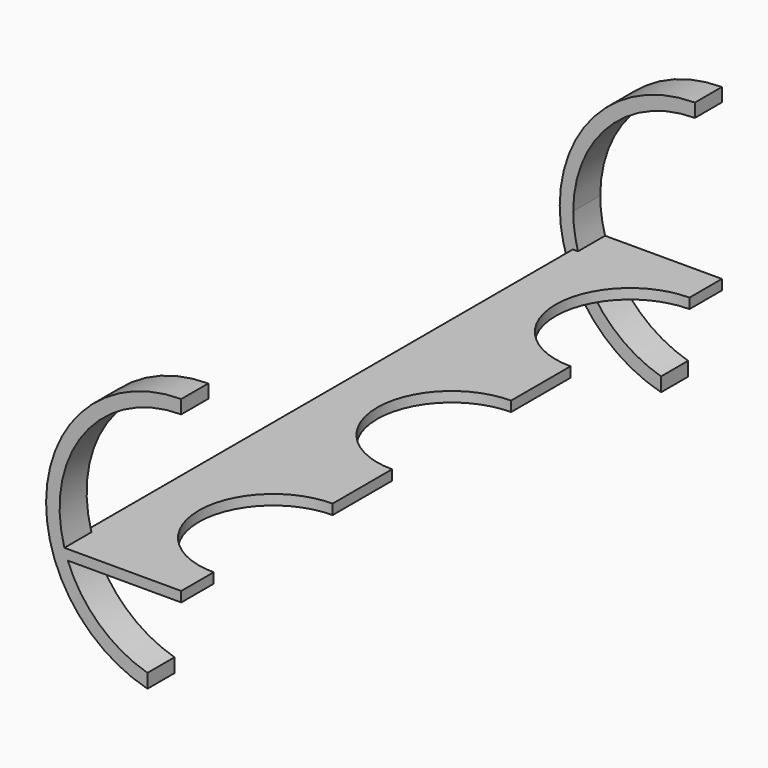
from build123d import *

# Parameters (mm, degrees)
F0_R          = 20
F0_R_2        = 18
F1_DEPTH      = 5
F2_W          = 36
F2_H          = 1.5
F3_DEPTH      = 5
F3_DEPTH_BACK = 95
F4_R          = 20
F5_DEPTH      = 5
F7_DEPTH      = 100.001
F8_R          = 11
F9_DEPTH      = 14.365916731
F10_W         = 25.2537801862
F10_H         = 64.4325390458
F11_DEPTH     = 100


with BuildPart() as f1:
    # F0 (on Front) → F1 (new body)
    with BuildSketch(Plane.XZ):
        Circle(F0_R)
        Circle(F0_R_2, mode=Mode.SUBTRACT)
    extrude(amount=F1_DEPTH)

    # F2 (on Front) → F3 (join, two sides)
    with BuildSketch(Plane.XZ) as f3_sk:
        with Locations((-0.0596572459, -5.75)):
            Rectangle(F2_W, F2_H)
    extrude(amount=F3_DEPTH)
    extrude(f3_sk.sketch, amount=-F3_DEPTH_BACK)

    # F4 (on face) → F5 (join)
    with BuildSketch(Plane(origin=(0, 95, 0), x_dir=(-1, 0, 0), z_dir=(0, 1, 0))):
        Circle(F4_R)
        with BuildLine():
            ThreePointArc((-17.2916164658, -5), (-2.5249657043, 17.8220242451), (18, 0))
            ThreePointArc((18, 0), (17.8220242451, -2.5249657043), (17.2916164658, -5))
            Line((17.2916164658, -5), (18.0596572459, -5))
            Line((18.0596572459, -5), (18.0596572459, -6.5))
            Line((18.0596572459, -6.5), (16.7854103316, -6.5))
            ThreePointArc((16.7854103316, -6.5), (0, -18), (-16.7854103316, -6.5))
            Line((-16.7854103316, -6.5), (-17.9403427541, -6.5))
            Line((-17.9403427541, -6.5), (-17.9403427541, -5))
            Line((-17.9403427541, -5), (-17.2916164658, -5))
        make_face(mode=Mode.SUBTRACT)
    extrude(amount=-F5_DEPTH)

    # F6 (on face) → F7 (cut, through all)
    with BuildSketch(Plane.XZ.offset(5)):
        with BuildLine():
            ThreePointArc((5, -19.364916731), (0, -20), (-5, -19.364916731))
            Line((-5, -19.364916731), (-5, -22.519255057))
            Line((-5, -22.519255057), (5, -22.519255057))
            Line((5, -22.519255057), (5, -19.364916731))
        make_face()
        with BuildLine():
            ThreePointArc((5, -17.2916164658), (0, -18), (-5, -17.2916164658))
            Line((-5, -17.2916164658), (-5, -19.364916731))
            ThreePointArc((-5, -19.364916731), (0, -20), (5, -19.364916731))
            Line((5, -19.364916731), (5, -17.2916164658))
        make_face()
        with BuildLine():
            Line((5, -12.519255057), (-5, -12.519255057))
            Line((-5, -12.519255057), (-5, -17.2916164658))
            ThreePointArc((-5, -17.2916164658), (0, -18), (5, -17.2916164658))
            Line((5, -17.2916164658), (5, -12.519255057))
        make_face()
    extrude(amount=-F7_DEPTH, mode=Mode.SUBTRACT)

    # F8 (on face) → F9 (cut, through all)
    with BuildSketch(Plane.XY.offset(-5)):
        with Locations((0, 12)):
            Circle(F8_R)
        with Locations((0, 45)):
            Circle(F8_R)
        with Locations((0, 78)):
            Circle(F8_R)
    extrude(amount=-F9_DEPTH, mode=Mode.SUBTRACT)

    # F10 (on Front) → F11 (cut, symmetric)
    with BuildSketch(Plane.XZ):
        with Locations((12.6268900931, -0.3540255129)):
            Rectangle(F10_W, F10_H)
    extrude(amount=F11_DEPTH, both=True, mode=Mode.SUBTRACT)


solid = f1.part
